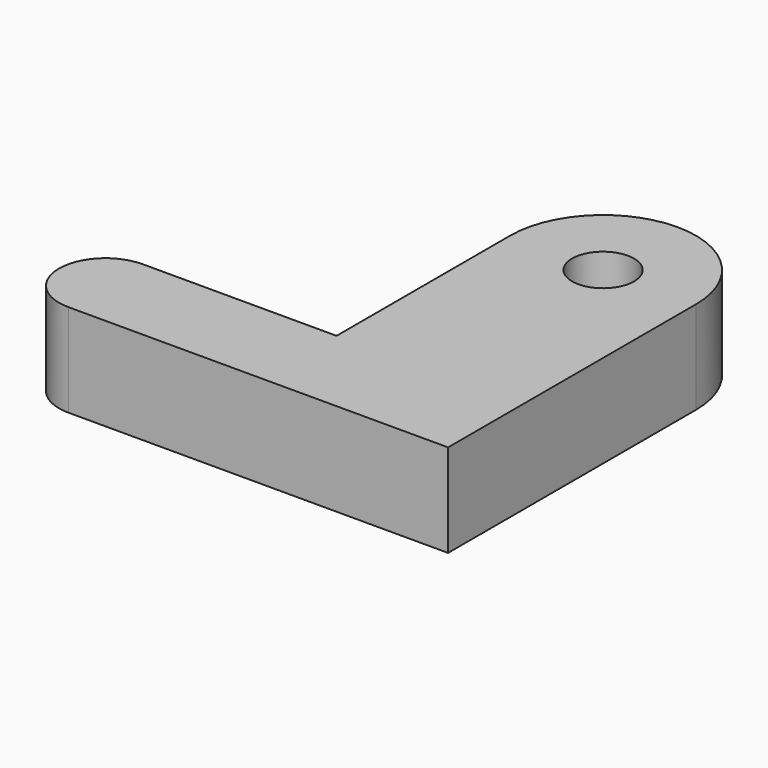
from build123d import *

# Parameters (mm, degrees)
F0_R     = 1
F1_DEPTH = 3


with BuildPart() as f1:
    # F0 (on Top) → F1 (new body)
    with BuildSketch(Plane.XY):
        with BuildLine():
            Line((-6, 3), (-12.259949, 3))
            ThreePointArc((-12.259949, 3), (-13.759949, 1.5), (-12.259949, 0))
            Line((-12.259949, 0), (0, 0))
            Line((0, 0), (0, 10.004636))
            ThreePointArc((0, 10.004636), (-3, 13.004636), (-6, 10.004636))
            Line((-6, 10.004636), (-6, 3))
        make_face()
        with Locations((-3, 10.004636)):
            Circle(F0_R, mode=Mode.SUBTRACT)
    extrude(amount=F1_DEPTH)


solid = f1.part
